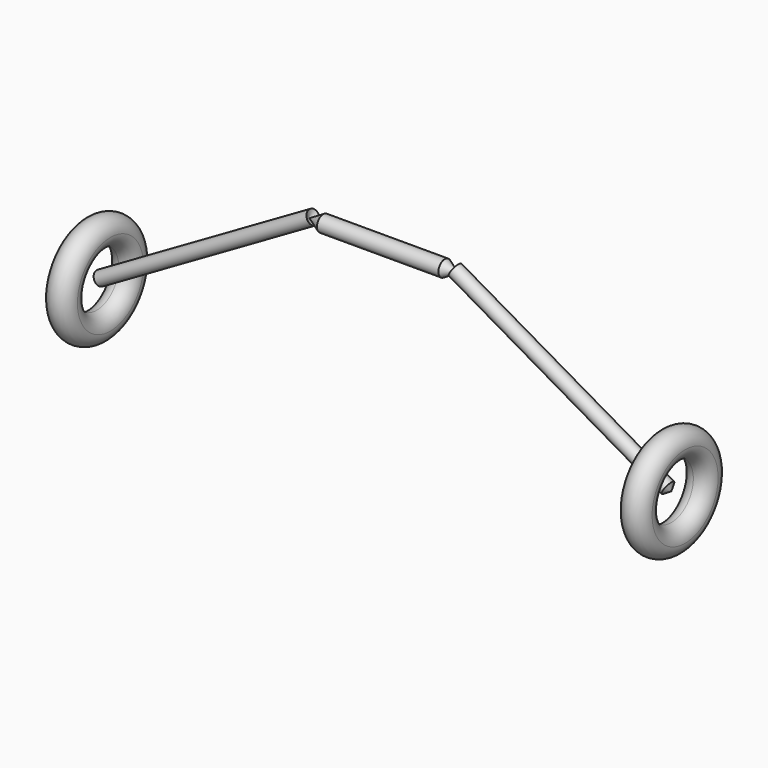
from build123d import *


with BuildPart() as f1:
    # F0 (on Front) → F1 (revolve)
    with BuildSketch(Plane.XZ):
        with BuildLine():
            ThreePointArc((-1010.6925780806, 152.4), (-1097.4136025649, 188.3210244843), (-1061.4925780806, 101.6))
            ThreePointArc((-1061.4925780806, 101.6), (-1025.5715535963, 116.4789755157), (-1010.6925780806, 152.4))
        make_face()
        with BuildLine():
            ThreePointArc((-1023.3925780806, 152.4), (-1034.5518097174, 125.4592316368), (-1061.4925780806, 114.3))
            ThreePointArc((-1061.4925780806, 114.3), (-1088.4333464438, 179.3407683632), (-1023.3925780806, 152.4))
        make_face(mode=Mode.SUBTRACT)
    revolve(axis=Axis((0, 0, 0), (1, 0, 0)))


with BuildPart() as f1b:
    # F0 (on Front) → F1, piece 2 (revolve)
    with BuildSketch(Plane.XZ):
        with BuildLine():
            ThreePointArc((1112.2925780806, 152.4), (1025.5715535963, 188.3210244843), (1061.4925780806, 101.6))
            ThreePointArc((1061.4925780806, 101.6), (1097.4136025649, 116.4789755157), (1112.2925780806, 152.4))
        make_face()
        with BuildLine():
            ThreePointArc((1099.5925780806, 152.4), (1088.4333464438, 125.4592316368), (1061.4925780806, 114.3))
            ThreePointArc((1061.4925780806, 114.3), (1034.5518097174, 179.3407683632), (1099.5925780806, 152.4))
        make_face(mode=Mode.SUBTRACT)
    revolve(axis=Axis((0, 0, 0), (1, 0, 0)))


with BuildPart() as f2:
    # F0 (on Front) → F2 (revolve)
    with BuildSketch(Plane.XZ):
        Polygon((275.225335611, 483.2809977696), (275.225335611, 453.9516040948), (1061.4925780806, 0), (1061.4925780806, 29.3293936748), align=None)
    revolve(axis=Axis((530.7462890403, 0, 306.4265128488), (0.8660254038, 0, -0.5)))


with BuildPart() as f3_1:
    # F3: instance of F2
    add(f2.part.mirror(Plane.YZ))


with BuildPart() as f4:
    # F0 (on Front) → F4 (revolve)
    with BuildSketch(Plane.XZ):
        Polygon((-224.425335611, 483.2809977696), (-275.225335611, 453.9516040948), (275.225335611, 453.9516040948), (224.425335611, 483.2809977696), align=None)
    revolve(axis=Axis((0, 0, 453.9516040948), (-1, 0, 0)))


solid = Compound([f1.part, f1b.part, f2.part, f3_1.part, f4.part])
